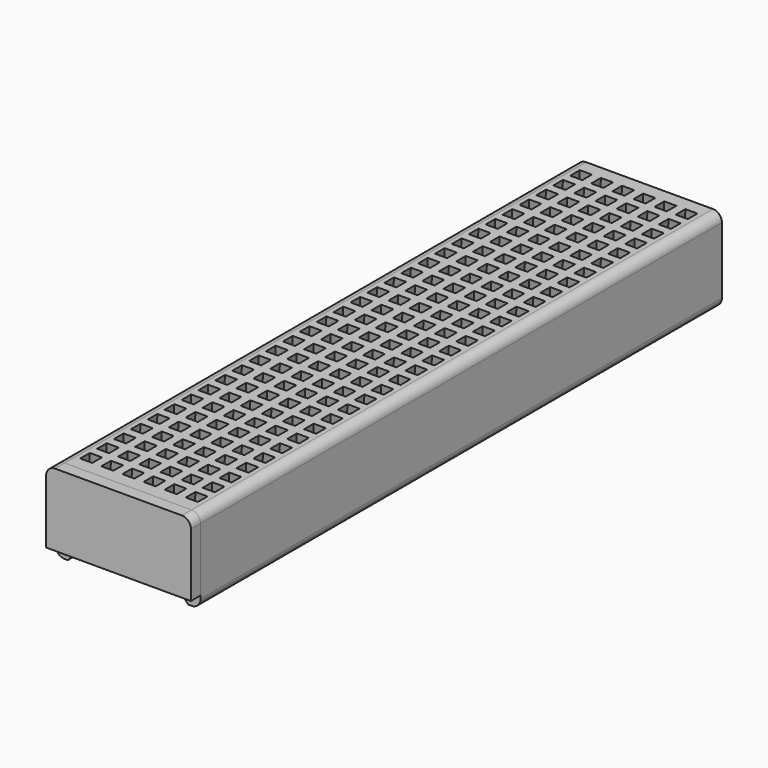
from build123d import *

# Parameters (mm, degrees)
F1_DEPTH = 108
F2_W     = 2
F2_H     = 2
F3_DEPTH = 1.7958749637
F3_TAPER = -12
F4_R     = 1.5
F6_DEPTH = 2


with BuildPart() as f1:
    # F0 (on Front) → F1 (new body)
    with BuildSketch(Plane.XZ):
        Polygon((-8, -5.1), (-10, -5.1), (-10, 5.1), (10, 5.1), (10, -5.1), (8, -5.1), (10, -7.1), (12, -7.1), (12, 6.8958749637), (-12, 6.8958749637), (-12, -7.1), (-10, -7.1), align=None)
    extrude(amount=F1_DEPTH)

    # F2 (on face) → F3 (cut, through all)
    with BuildSketch(Plane.XY.offset(6.8958749637)):
        with Locations((-8.75, -104.75)):
            Rectangle(F2_W, F2_H)
        with Locations((-8.75, -101.25)):
            Rectangle(F2_W, F2_H)
        with Locations((-8.75, -97.75)):
            Rectangle(F2_W, F2_H)
        with Locations((-8.75, -94.25)):
            Rectangle(F2_W, F2_H)
        with Locations((-8.75, -90.75)):
            Rectangle(F2_W, F2_H)
        with Locations((-8.75, -87.25)):
            Rectangle(F2_W, F2_H)
        with Locations((-8.75, -83.75)):
            Rectangle(F2_W, F2_H)
        with Locations((-8.75, -80.25)):
            Rectangle(F2_W, F2_H)
        with Locations((-8.75, -76.75)):
            Rectangle(F2_W, F2_H)
        with Locations((-8.75, -73.25)):
            Rectangle(F2_W, F2_H)
        with Locations((-8.75, -69.75)):
            Rectangle(F2_W, F2_H)
        with Locations((-8.75, -66.25)):
            Rectangle(F2_W, F2_H)
        with Locations((-8.75, -62.75)):
            Rectangle(F2_W, F2_H)
        with Locations((-8.75, -59.25)):
            Rectangle(F2_W, F2_H)
        with Locations((-8.75, -55.75)):
            Rectangle(F2_W, F2_H)
        with Locations((-8.75, -52.25)):
            Rectangle(F2_W, F2_H)
        with Locations((-8.75, -48.75)):
            Rectangle(F2_W, F2_H)
        with Locations((-8.75, -45.25)):
            Rectangle(F2_W, F2_H)
        with Locations((-8.75, -41.75)):
            Rectangle(F2_W, F2_H)
        with Locations((-8.75, -38.25)):
            Rectangle(F2_W, F2_H)
        with Locations((-8.75, -34.75)):
            Rectangle(F2_W, F2_H)
        with Locations((-8.75, -31.25)):
            Rectangle(F2_W, F2_H)
        with Locations((-8.75, -27.75)):
            Rectangle(F2_W, F2_H)
        with Locations((-8.75, -24.25)):
            Rectangle(F2_W, F2_H)
        with Locations((-8.75, -20.75)):
            Rectangle(F2_W, F2_H)
        with Locations((-5.25, -104.75)):
            Rectangle(F2_W, F2_H)
        with Locations((-5.25, -101.25)):
            Rectangle(F2_W, F2_H)
        with Locations((-5.25, -97.75)):
            Rectangle(F2_W, F2_H)
        with Locations((-5.25, -94.25)):
            Rectangle(F2_W, F2_H)
        with Locations((-5.25, -90.75)):
            Rectangle(F2_W, F2_H)
        with Locations((-5.25, -87.25)):
            Rectangle(F2_W, F2_H)
        with Locations((-5.25, -83.75)):
            Rectangle(F2_W, F2_H)
        with Locations((-5.25, -80.25)):
            Rectangle(F2_W, F2_H)
        with Locations((-5.25, -76.75)):
            Rectangle(F2_W, F2_H)
        with Locations((-5.25, -73.25)):
            Rectangle(F2_W, F2_H)
        with Locations((-5.25, -69.75)):
            Rectangle(F2_W, F2_H)
        with Locations((-5.25, -66.25)):
            Rectangle(F2_W, F2_H)
        with Locations((-5.25, -62.75)):
            Rectangle(F2_W, F2_H)
        with Locations((-5.25, -59.25)):
            Rectangle(F2_W, F2_H)
        with Locations((-5.25, -55.75)):
            Rectangle(F2_W, F2_H)
        with Locations((-5.25, -52.25)):
            Rectangle(F2_W, F2_H)
        with Locations((-5.25, -48.75)):
            Rectangle(F2_W, F2_H)
        with Locations((-5.25, -45.25)):
            Rectangle(F2_W, F2_H)
        with Locations((-5.25, -41.75)):
            Rectangle(F2_W, F2_H)
        with Locations((-5.25, -38.25)):
            Rectangle(F2_W, F2_H)
        with Locations((-5.25, -34.75)):
            Rectangle(F2_W, F2_H)
        with Locations((-5.25, -31.25)):
            Rectangle(F2_W, F2_H)
        with Locations((-5.25, -27.75)):
            Rectangle(F2_W, F2_H)
        with Locations((-5.25, -24.25)):
            Rectangle(F2_W, F2_H)
        with Locations((-5.25, -20.75)):
            Rectangle(F2_W, F2_H)
        with Locations((-1.75, -104.75)):
            Rectangle(F2_W, F2_H)
        with Locations((-1.75, -101.25)):
            Rectangle(F2_W, F2_H)
        with Locations((-1.75, -97.75)):
            Rectangle(F2_W, F2_H)
        with Locations((-1.75, -94.25)):
            Rectangle(F2_W, F2_H)
        with Locations((-1.75, -90.75)):
            Rectangle(F2_W, F2_H)
        with Locations((-1.75, -87.25)):
            Rectangle(F2_W, F2_H)
        with Locations((-1.75, -83.75)):
            Rectangle(F2_W, F2_H)
        with Locations((-1.75, -80.25)):
            Rectangle(F2_W, F2_H)
        with Locations((-1.75, -76.75)):
            Rectangle(F2_W, F2_H)
        with Locations((-1.75, -73.25)):
            Rectangle(F2_W, F2_H)
        with Locations((-1.75, -69.75)):
            Rectangle(F2_W, F2_H)
        with Locations((-1.75, -66.25)):
            Rectangle(F2_W, F2_H)
        with Locations((-1.75, -62.75)):
            Rectangle(F2_W, F2_H)
        with Locations((-1.75, -59.25)):
            Rectangle(F2_W, F2_H)
        with Locations((-1.75, -55.75)):
            Rectangle(F2_W, F2_H)
        with Locations((-1.75, -52.25)):
            Rectangle(F2_W, F2_H)
        with Locations((-1.75, -48.75)):
            Rectangle(F2_W, F2_H)
        with Locations((-1.75, -45.25)):
            Rectangle(F2_W, F2_H)
        with Locations((-1.75, -41.75)):
            Rectangle(F2_W, F2_H)
        with Locations((-1.75, -38.25)):
            Rectangle(F2_W, F2_H)
        with Locations((-1.75, -34.75)):
            Rectangle(F2_W, F2_H)
        with Locations((-1.75, -31.25)):
            Rectangle(F2_W, F2_H)
        with Locations((-1.75, -27.75)):
            Rectangle(F2_W, F2_H)
        with Locations((-1.75, -24.25)):
            Rectangle(F2_W, F2_H)
        with Locations((-1.75, -20.75)):
            Rectangle(F2_W, F2_H)
        with Locations((1.75, -104.75)):
            Rectangle(F2_W, F2_H)
        with Locations((1.75, -101.25)):
            Rectangle(F2_W, F2_H)
        with Locations((1.75, -97.75)):
            Rectangle(F2_W, F2_H)
        with Locations((1.75, -94.25)):
            Rectangle(F2_W, F2_H)
        with Locations((1.75, -90.75)):
            Rectangle(F2_W, F2_H)
        with Locations((1.75, -87.25)):
            Rectangle(F2_W, F2_H)
        with Locations((1.75, -83.75)):
            Rectangle(F2_W, F2_H)
        with Locations((1.75, -80.25)):
            Rectangle(F2_W, F2_H)
        with Locations((1.75, -76.75)):
            Rectangle(F2_W, F2_H)
        with Locations((1.75, -73.25)):
            Rectangle(F2_W, F2_H)
        with Locations((1.75, -69.75)):
            Rectangle(F2_W, F2_H)
        with Locations((1.75, -66.25)):
            Rectangle(F2_W, F2_H)
        with Locations((1.75, -62.75)):
            Rectangle(F2_W, F2_H)
        with Locations((1.75, -59.25)):
            Rectangle(F2_W, F2_H)
        with Locations((1.75, -55.75)):
            Rectangle(F2_W, F2_H)
        with Locations((1.75, -52.25)):
            Rectangle(F2_W, F2_H)
        with Locations((1.75, -48.75)):
            Rectangle(F2_W, F2_H)
        with Locations((1.75, -45.25)):
            Rectangle(F2_W, F2_H)
        with Locations((1.75, -41.75)):
            Rectangle(F2_W, F2_H)
        with Locations((1.75, -38.25)):
            Rectangle(F2_W, F2_H)
        with Locations((1.75, -34.75)):
            Rectangle(F2_W, F2_H)
        with Locations((1.75, -31.25)):
            Rectangle(F2_W, F2_H)
        with Locations((1.75, -27.75)):
            Rectangle(F2_W, F2_H)
        with Locations((1.75, -24.25)):
            Rectangle(F2_W, F2_H)
        with Locations((1.75, -20.75)):
            Rectangle(F2_W, F2_H)
        with Locations((5.25, -104.75)):
            Rectangle(F2_W, F2_H)
        with Locations((5.25, -101.25)):
            Rectangle(F2_W, F2_H)
        with Locations((5.25, -97.75)):
            Rectangle(F2_W, F2_H)
        with Locations((5.25, -94.25)):
            Rectangle(F2_W, F2_H)
        with Locations((5.25, -90.75)):
            Rectangle(F2_W, F2_H)
        with Locations((5.25, -87.25)):
            Rectangle(F2_W, F2_H)
        with Locations((5.25, -83.75)):
            Rectangle(F2_W, F2_H)
        with Locations((5.25, -80.25)):
            Rectangle(F2_W, F2_H)
        with Locations((5.25, -76.75)):
            Rectangle(F2_W, F2_H)
        with Locations((5.25, -73.25)):
            Rectangle(F2_W, F2_H)
        with Locations((5.25, -69.75)):
            Rectangle(F2_W, F2_H)
        with Locations((5.25, -66.25)):
            Rectangle(F2_W, F2_H)
        with Locations((5.25, -62.75)):
            Rectangle(F2_W, F2_H)
        with Locations((5.25, -59.25)):
            Rectangle(F2_W, F2_H)
        with Locations((5.25, -55.75)):
            Rectangle(F2_W, F2_H)
        with Locations((5.25, -52.25)):
            Rectangle(F2_W, F2_H)
        with Locations((5.25, -48.75)):
            Rectangle(F2_W, F2_H)
        with Locations((5.25, -45.25)):
            Rectangle(F2_W, F2_H)
        with Locations((5.25, -41.75)):
            Rectangle(F2_W, F2_H)
        with Locations((5.25, -38.25)):
            Rectangle(F2_W, F2_H)
        with Locations((5.25, -34.75)):
            Rectangle(F2_W, F2_H)
        with Locations((5.25, -31.25)):
            Rectangle(F2_W, F2_H)
        with Locations((5.25, -27.75)):
            Rectangle(F2_W, F2_H)
        with Locations((5.25, -24.25)):
            Rectangle(F2_W, F2_H)
        with Locations((5.25, -20.75)):
            Rectangle(F2_W, F2_H)
        with Locations((8.75, -104.75)):
            Rectangle(F2_W, F2_H)
        with Locations((8.75, -101.25)):
            Rectangle(F2_W, F2_H)
        with Locations((8.75, -97.75)):
            Rectangle(F2_W, F2_H)
        with Locations((8.75, -94.25)):
            Rectangle(F2_W, F2_H)
        with Locations((8.75, -90.75)):
            Rectangle(F2_W, F2_H)
        with Locations((8.75, -87.25)):
            Rectangle(F2_W, F2_H)
        with Locations((8.75, -83.75)):
            Rectangle(F2_W, F2_H)
        with Locations((8.75, -80.25)):
            Rectangle(F2_W, F2_H)
        with Locations((8.75, -76.75)):
            Rectangle(F2_W, F2_H)
        with Locations((8.75, -73.25)):
            Rectangle(F2_W, F2_H)
        with Locations((8.75, -69.75)):
            Rectangle(F2_W, F2_H)
        with Locations((8.75, -66.25)):
            Rectangle(F2_W, F2_H)
        with Locations((8.75, -62.75)):
            Rectangle(F2_W, F2_H)
        with Locations((8.75, -59.25)):
            Rectangle(F2_W, F2_H)
        with Locations((8.75, -55.75)):
            Rectangle(F2_W, F2_H)
        with Locations((8.75, -52.25)):
            Rectangle(F2_W, F2_H)
        with Locations((8.75, -48.75)):
            Rectangle(F2_W, F2_H)
        with Locations((8.75, -45.25)):
            Rectangle(F2_W, F2_H)
        with Locations((8.75, -41.75)):
            Rectangle(F2_W, F2_H)
        with Locations((8.75, -38.25)):
            Rectangle(F2_W, F2_H)
        with Locations((8.75, -34.75)):
            Rectangle(F2_W, F2_H)
        with Locations((8.75, -31.25)):
            Rectangle(F2_W, F2_H)
        with Locations((8.75, -27.75)):
            Rectangle(F2_W, F2_H)
        with Locations((8.75, -24.25)):
            Rectangle(F2_W, F2_H)
        with Locations((8.75, -20.75)):
            Rectangle(F2_W, F2_H)
        with Locations((-8.75, -17.25)):
            Rectangle(F2_W, F2_H)
        with Locations((-8.75, -13.75)):
            Rectangle(F2_W, F2_H)
        with Locations((-8.75, -10.25)):
            Rectangle(F2_W, F2_H)
        with Locations((-8.75, -6.75)):
            Rectangle(F2_W, F2_H)
        with Locations((-8.75, -3.25)):
            Rectangle(F2_W, F2_H)
        with Locations((-5.25, -17.25)):
            Rectangle(F2_W, F2_H)
        with Locations((-5.25, -13.75)):
            Rectangle(F2_W, F2_H)
        with Locations((-5.25, -10.25)):
            Rectangle(F2_W, F2_H)
        with Locations((-5.25, -6.75)):
            Rectangle(F2_W, F2_H)
        with Locations((-5.25, -3.25)):
            Rectangle(F2_W, F2_H)
        with Locations((-1.75, -17.25)):
            Rectangle(F2_W, F2_H)
        with Locations((-1.75, -13.75)):
            Rectangle(F2_W, F2_H)
        with Locations((-1.75, -10.25)):
            Rectangle(F2_W, F2_H)
        with Locations((-1.75, -6.75)):
            Rectangle(F2_W, F2_H)
        with Locations((-1.75, -3.25)):
            Rectangle(F2_W, F2_H)
        with Locations((1.75, -17.25)):
            Rectangle(F2_W, F2_H)
        with Locations((1.75, -13.75)):
            Rectangle(F2_W, F2_H)
        with Locations((1.75, -10.25)):
            Rectangle(F2_W, F2_H)
        with Locations((1.75, -6.75)):
            Rectangle(F2_W, F2_H)
        with Locations((1.75, -3.25)):
            Rectangle(F2_W, F2_H)
        with Locations((5.25, -17.25)):
            Rectangle(F2_W, F2_H)
        with Locations((5.25, -13.75)):
            Rectangle(F2_W, F2_H)
        with Locations((5.25, -10.25)):
            Rectangle(F2_W, F2_H)
        with Locations((5.25, -6.75)):
            Rectangle(F2_W, F2_H)
        with Locations((5.25, -3.25)):
            Rectangle(F2_W, F2_H)
        with Locations((8.75, -17.25)):
            Rectangle(F2_W, F2_H)
        with Locations((8.75, -13.75)):
            Rectangle(F2_W, F2_H)
        with Locations((8.75, -10.25)):
            Rectangle(F2_W, F2_H)
        with Locations((8.75, -6.75)):
            Rectangle(F2_W, F2_H)
        with Locations((8.75, -3.25)):
            Rectangle(F2_W, F2_H)
    extrude(amount=-F3_DEPTH, taper=F3_TAPER, mode=Mode.SUBTRACT)

    # F4
    f4_edges = [f1.edges().sort_by_distance(p)[0] for p in [
        (12, -54, 6.895875),
        (-12, -54, 6.895875),
        (12, -54, -7.1),
        (-12, -54, -7.1),
    ]]
    fillet(f4_edges, radius=F4_R)


with BuildPart() as f6:
    # F5 (on face) → F6 (new body)
    with BuildSketch(Plane.XZ.offset(108)):
        with BuildLine():
            Line((-12, 5.4), (-12, -5.1))
            Line((-12, -5.1), (12, -5.1))
            Line((12, -5.1), (12, 5.4))
            ThreePointArc((12, 5.4), (11.5606601718, 6.4606601718), (10.5, 6.9))
            Line((10.5, 6.9), (-10.5, 6.9))
            ThreePointArc((-10.5, 6.9), (-11.5606601718, 6.4606601718), (-12, 5.4))
        make_face()
    extrude(amount=F6_DEPTH)


solid = Compound([f1.part, f6.part])
